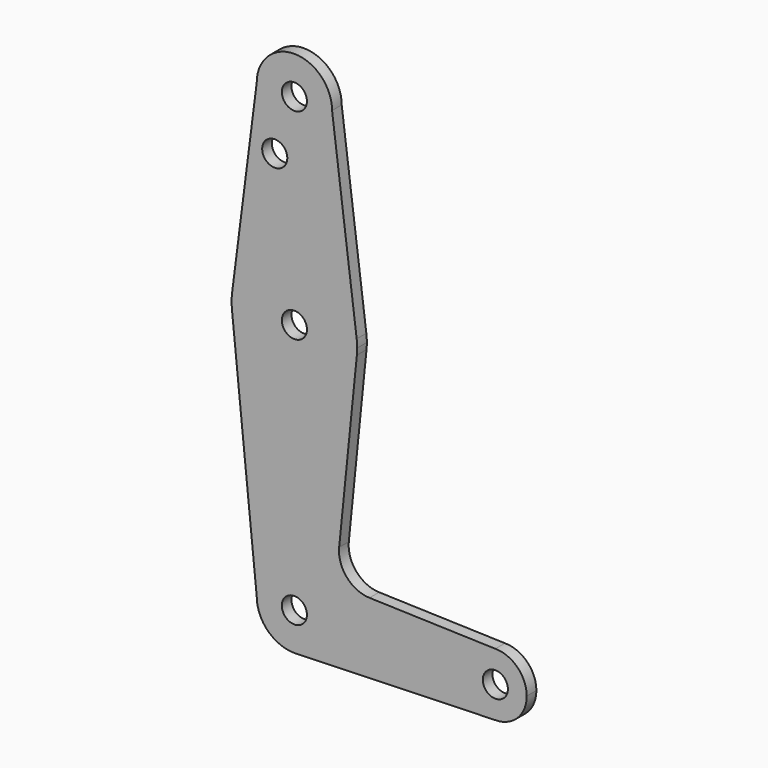
from build123d import *

# Parameters (mm, degrees)
F0_R     = 3.175
F1_DEPTH = 3.048


with BuildPart() as f1:
    # F0 (on Front) → F1 (new body)
    with BuildSketch(Plane.XZ):
        with BuildLine():
            ThreePointArc((35.00541, -57.739372), (41.352956, -54.754491), (43.935678, -48.232958))
            ThreePointArc((43.935678, -48.232958), (34.410678, -38.707958), (24.885678, -48.232958))
            ThreePointArc((24.885678, -48.232958), (27.675486, -54.96815), (34.410678, -57.757958))
            Line((34.410678, -57.757958), (35.00541, -57.739372))
        make_face()
        with Locations((34.410678, -48.232958)):
            Circle(F0_R, mode=Mode.SUBTRACT)
        with BuildLine():
            ThreePointArc((24.885678, -48.232958), (34.410678, -38.707958), (43.935678, -48.232958))
            ThreePointArc((43.935678, -48.232958), (41.352956, -54.754491), (35.00541, -57.739372))
            Line((35.00541, -57.739372), (85.210678, -56.170458))
            ThreePointArc((85.210678, -56.170458), (77.273178, -48.232958), (85.210678, -40.295458))
            Line((85.210678, -40.295458), (53.38764, -39.300988))
            ThreePointArc((53.38764, -39.300988), (47.655346, -36.592787), (45.726226, -30.553577))
            Line((45.726226, -30.553577), (50.204881, 13.667423))
            ThreePointArc((50.204881, 13.667423), (34.410678, -0.607958), (18.616475, 13.667423))
            Line((18.616475, 13.667423), (24.885678, -48.232958))
        make_face()
        with BuildLine():
            ThreePointArc((34.410678, -57.757958), (34.708189, -57.75331), (35.00541, -57.739372))
            Line((35.00541, -57.739372), (34.410678, -57.757958))
        make_face()
        with BuildLine():
            ThreePointArc((18.663221, 17.275332), (18.53701, 15.47271), (18.616475, 13.667423))
            ThreePointArc((18.616475, 13.667423), (34.410678, -0.607958), (50.204881, 13.667423))
            ThreePointArc((50.204881, 13.667423), (50.265466, 14.466213), (50.285678, 15.267042))
            ThreePointArc((50.285678, 15.267042), (50.25376, 16.27321), (50.158135, 17.275332))
            ThreePointArc((50.158135, 17.275332), (34.410678, 31.142042), (18.663221, 17.275332))
        make_face()
        with Locations((34.410678, 15.267042)):
            Circle(F0_R, mode=Mode.SUBTRACT)
        with BuildLine():
            ThreePointArc((85.210678, -40.295458), (77.273178, -48.232958), (85.210678, -56.170458))
            ThreePointArc((85.210678, -56.170458), (90.823338, -53.845618), (93.148178, -48.232958))
            ThreePointArc((93.148178, -48.232958), (90.823338, -42.620298), (85.210678, -40.295458))
        make_face()
        with Locations((85.210678, -48.232958)):
            Circle(F0_R, mode=Mode.SUBTRACT)
        with BuildLine():
            Line((24.885678, 66.067042), (18.663221, 17.275332))
            ThreePointArc((18.663221, 17.275332), (34.410678, 31.142042), (50.158135, 17.275332))
            Line((50.158135, 17.275332), (43.935678, 66.067042))
            ThreePointArc((43.935678, 66.067042), (34.410678, 56.542042), (24.885678, 66.067042))
        make_face()
        with Locations((29.443976, 51.792242)):
            Circle(F0_R, mode=Mode.SUBTRACT)
        with BuildLine():
            ThreePointArc((43.935678, 66.067042), (34.410678, 75.592042), (24.885678, 66.067042))
            ThreePointArc((24.885678, 66.067042), (34.410678, 56.542042), (43.935678, 66.067042))
        make_face()
        with Locations((34.410678, 66.067042)):
            Circle(F0_R, mode=Mode.SUBTRACT)
    extrude(amount=F1_DEPTH)


solid = f1.part
